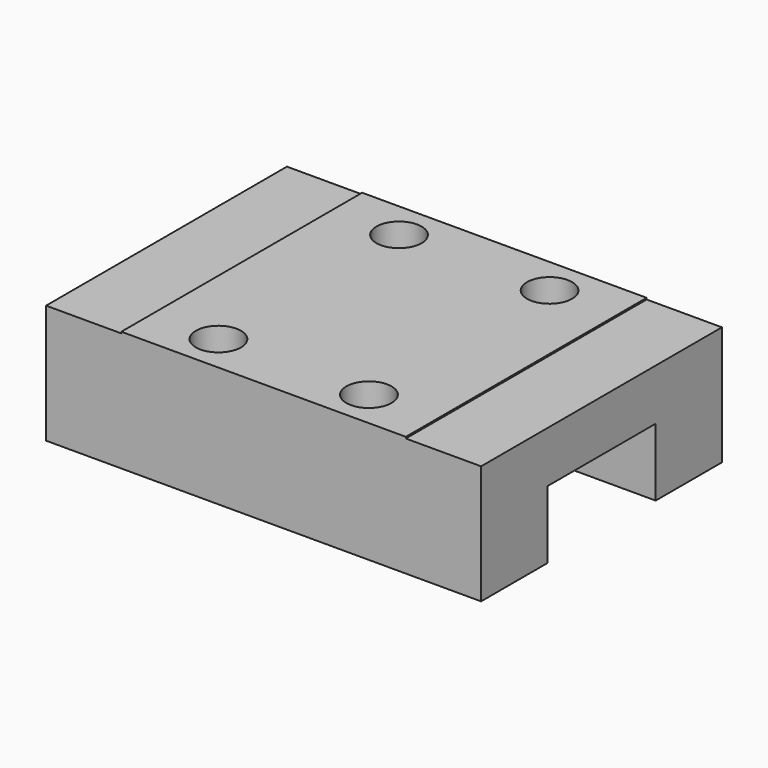
from build123d import *

# Parameters (mm, degrees)
SKETCH002_W     = 28.9
SKETCH002_H     = 20
PAD001_DEPTH    = 8
SKETCH003_W     = 9
SKETCH003_H     = 4.5
POCKET001_DEPTH = 28.9
SKETCH004_R     = 1.5
POCKET002_DEPTH = 4
SKETCH005_W     = 5
SKETCH005_H     = 20
POCKET003_DEPTH = 0.1


with BuildPart() as part:
    # Sketch002 → Pad001 (new body)
    with BuildSketch(Plane.XY):
        with Locations((14.45, 10)):
            Rectangle(SKETCH002_W, SKETCH002_H)
    extrude(amount=PAD001_DEPTH)

    # Sketch003 (on Face4 of Pad001) → Pocket001 (cut)
    with BuildSketch(Plane(origin=(0, 0, 0), x_dir=(0, -1, 0), z_dir=(-1, 0, 0))):
        with Locations((-10, 2.25)):
            Rectangle(SKETCH003_W, SKETCH003_H)
    extrude(amount=-POCKET001_DEPTH, mode=Mode.SUBTRACT)

    # Sketch004 (on Face5 of Pocket001) → Pocket002 (cut)
    with BuildSketch(Plane.XY.offset(8)):
        with Locations((9.45, 17.5)):
            Circle(SKETCH004_R)
        with Locations((19.45, 17.5)):
            Circle(SKETCH004_R)
        with Locations((19.45, 2.5)):
            Circle(SKETCH004_R)
        with Locations((9.45, 2.5)):
            Circle(SKETCH004_R)
    extrude(amount=-POCKET002_DEPTH, mode=Mode.SUBTRACT)

    # Sketch005 (on Face5 of Pocket002) → Pocket003 (cut)
    with BuildSketch(Plane.XY.offset(8)):
        with Locations((2.5, 10)):
            Rectangle(SKETCH005_W, SKETCH005_H)
        with Locations((26.4, 10)):
            Rectangle(SKETCH005_W, SKETCH005_H)
    extrude(amount=-POCKET003_DEPTH, mode=Mode.SUBTRACT)


solid = part.part
